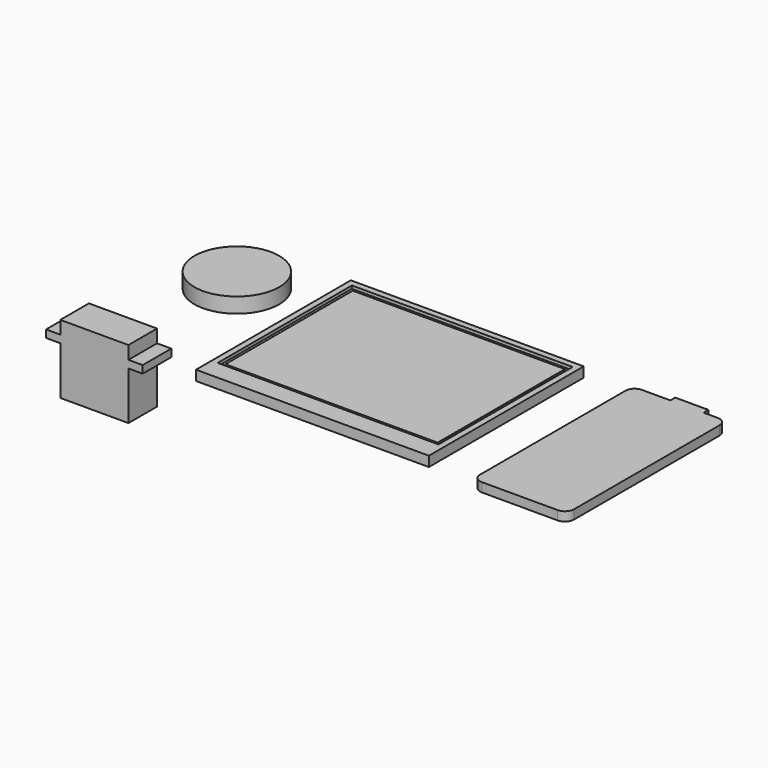
from build123d import *

# Parameters (mm, degrees)
F0_W      = 76.9
F0_H      = 63.9
F1_DEPTH  = 3.3
F2_W      = 72.9
F2_H      = 55.4
F3_DEPTH  = 1
F4_W      = 70.08
F4_H      = 52.56
F5_DEPTH  = 0.5
F6_R      = 14
F7_DEPTH  = 5
F8_W      = 11
F8_H      = 2
F9_DEPTH  = 3
F10_R     = 3
F11_W     = 22.5
F11_H     = 11.8
F12_DEPTH = 22.7
F13_W     = 11.8
F13_H     = 2.5
F14_DEPTH = 4.7
F15_W     = 11.8
F15_H     = 2.5
F16_DEPTH = 4.7


with BuildPart() as f1:
    # F0 (on Top) → F1 (new body)
    with BuildSketch(Plane.XY):
        with Locations((0, -2.2)):
            Rectangle(F0_W, F0_H)
    extrude(amount=F1_DEPTH)

    # F2 (on face) → F3 (cut)
    with BuildSketch(Plane.XY.offset(3.3)):
        Rectangle(F2_W, F2_H)
    extrude(amount=-F3_DEPTH, mode=Mode.SUBTRACT)

    # F4 (on face) → F5 (join)
    with BuildSketch(Plane.XY.offset(2.3)):
        Rectangle(F4_W, F4_H)
    extrude(amount=F5_DEPTH)


with BuildPart() as f7:
    # F6 (on Top) → F7 (new body)
    with BuildSketch(Plane.XY):
        with Locations((-62.45, 12.708299)):
            Circle(F6_R)
    extrude(amount=F7_DEPTH)


with BuildPart() as f9:
    # F8 (on Top) → F9 (new body)
    with BuildSketch(Plane.XY):
        Polygon((67.395655, 29.319293), (54.995655, 29.319293), (54.995655, -36.680707), (85.995655, -36.680707), (85.995655, 29.319293), (78.395655, 29.319293), align=None)
        with Locations((72.895655, 30.319293)):
            Rectangle(F8_W, F8_H)
    extrude(amount=F9_DEPTH)

    # F10
    f10_edges = [f9.edges().sort_by_distance(p)[0] for p in [
        (85.995655, -36.680707, 1.5),
        (54.995655, -36.680707, 1.5),
        (54.995655, 29.319293, 1.5),
        (85.995655, 29.319293, 1.5),
    ]]
    fillet(f10_edges, radius=F10_R)


with BuildPart() as f12:
    # F11 (on Top) → F12 (new body)
    with BuildSketch(Plane.XY):
        with Locations((-48.616868, -57.483677)):
            Rectangle(F11_W, F11_H)
    extrude(amount=F12_DEPTH)

    # F13 (on face) → F14 (join)
    with BuildSketch(Plane(origin=(-59.866868, 0, 0), x_dir=(0, -1, 0), z_dir=(-1, 0, 0))):
        with Locations((57.483677, 17.15)):
            Rectangle(F13_W, F13_H)
    extrude(amount=F14_DEPTH)

    # F15 (on face) → F16 (join)
    with BuildSketch(Plane.YZ.offset(-37.366868)):
        with Locations((-57.483677, 17.15)):
            Rectangle(F15_W, F15_H)
    extrude(amount=F16_DEPTH)


solid = Compound([f1.part, f7.part, f9.part, f12.part])
